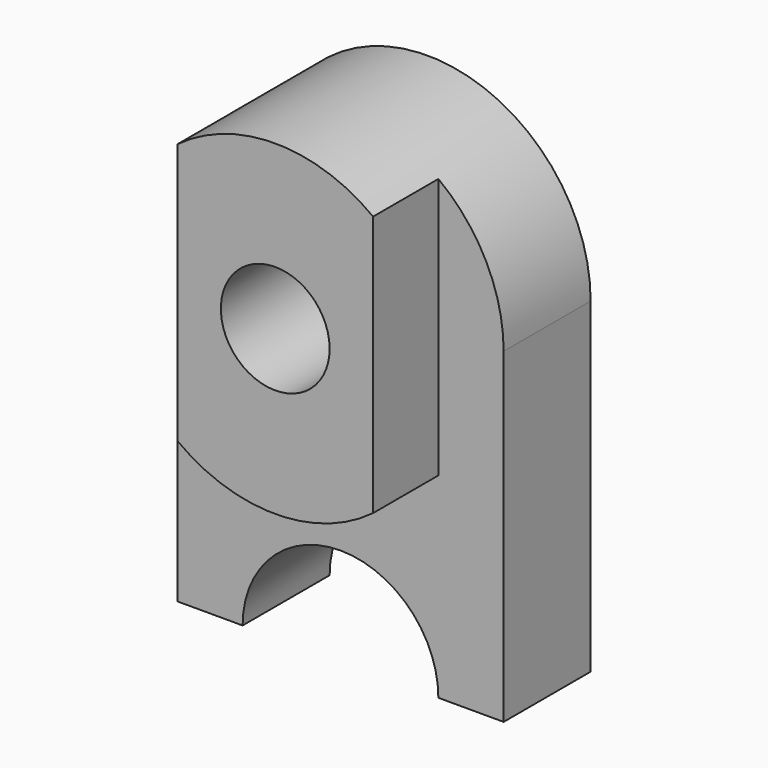
from build123d import *

# Parameters (mm, degrees)
F1_DEPTH = 20
F3_DEPTH = 15
F4_R     = 10
F5_DEPTH = 35.001


with BuildPart() as f1:
    # F0 (on Front) → F1 (new body)
    with BuildSketch(Plane.XZ):
        with BuildLine():
            Line((18, -30), (30, -30))
            Line((30, -30), (30, 30))
            ThreePointArc((30, 30), (0, 60), (-30, 30))
            Line((-30, 30), (-30, -30))
            Line((-30, -30), (-18, -30))
            ThreePointArc((-18, -30), (0, -12), (18, -30))
        make_face()
    extrude(amount=F1_DEPTH)

    # F2 (on face) → F3 (join)
    with BuildSketch(Plane.XZ.offset(20)):
        with BuildLine():
            Line((-18, 30), (-18, 6))
            ThreePointArc((-18, 6), (0, 0), (18, 6))
            Line((18, 6), (18, 30))
            Line((18, 30), (18, 54))
            ThreePointArc((18, 54), (0, 60), (-18, 54))
            Line((-18, 54), (-18, 30))
        make_face()
    extrude(amount=F3_DEPTH)

    # F4 (on face) → F5 (cut, through all)
    with BuildSketch(Plane.XZ.offset(35)):
        with Locations((0, 30)):
            Circle(F4_R)
    extrude(amount=-F5_DEPTH, mode=Mode.SUBTRACT)


solid = f1.part
